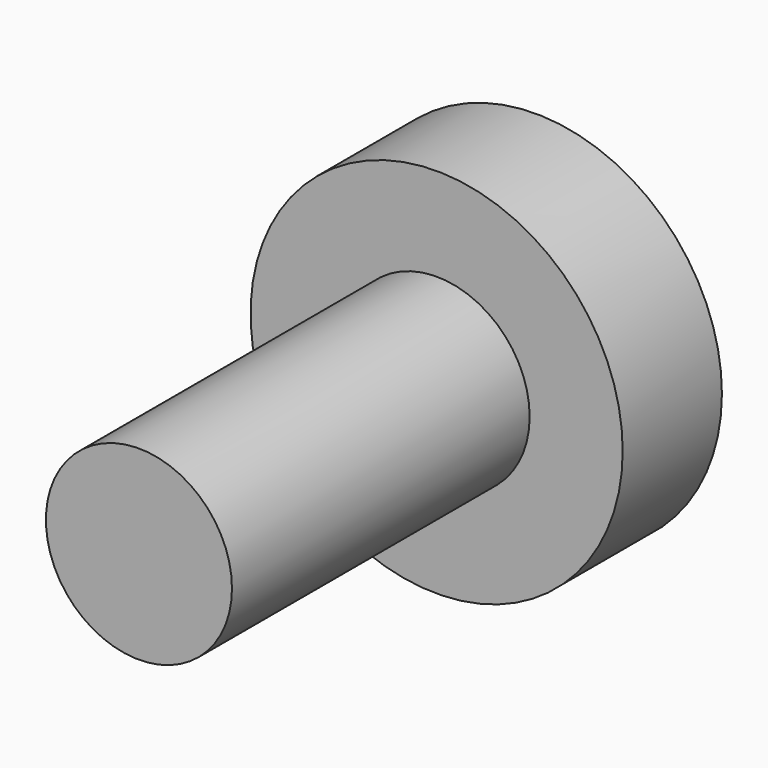
from build123d import *

# Parameters (mm, degrees)
F0_R     = 15
F0_R_2   = 7.5
F2_DEPTH = 10
F1_R     = 7.5
F3_DEPTH = 40


with BuildPart() as f2:
    # F0 (on Front) → F2 (new body)
    with BuildSketch(Plane.XZ):
        Circle(F0_R)
        Circle(F0_R_2, mode=Mode.SUBTRACT)
    extrude(amount=F2_DEPTH)

    # F1 (on Front) → F3 (join)
    with BuildSketch(Plane.XZ):
        Circle(F1_R)
    extrude(amount=F3_DEPTH)


solid = f2.part
